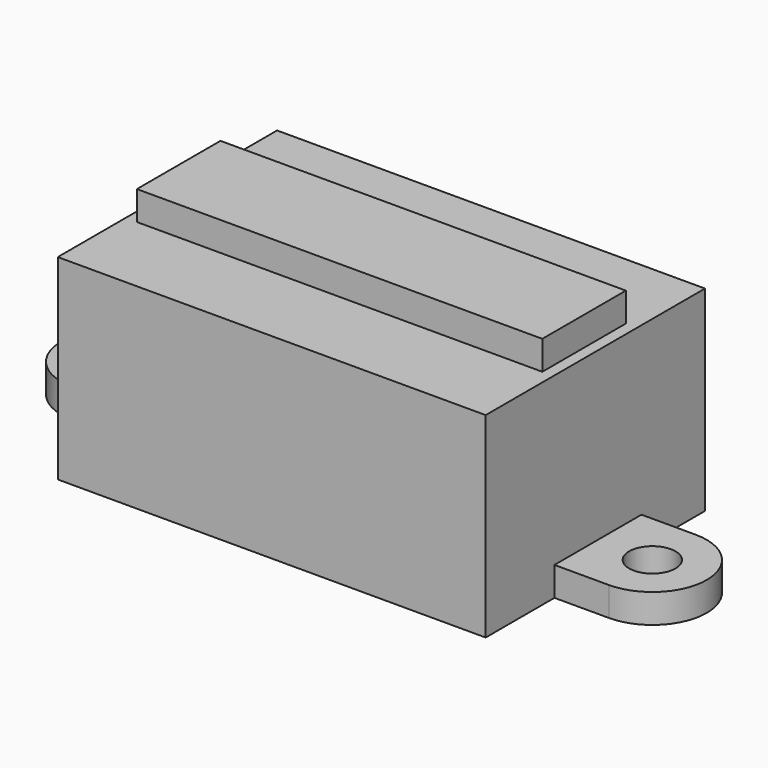
from build123d import *

# Parameters (mm, degrees)
F0_W     = 29.5
F0_H     = 18.9
F1_DEPTH = 13.5
F2_R     = 1.6
F3_DEPTH = 2
F4_W     = 27.95
F4_H     = 7.2
F5_DEPTH = 2


with BuildPart() as f1:
    # F0 (on Top) → F1 (new body)
    with BuildSketch(Plane.XY):
        with Locations((-2.3268059269, -8.9522809724)):
            Rectangle(F0_W, F0_H)
    extrude(amount=F1_DEPTH)

    # F2 (on face) → F3 (join)
    with BuildSketch(Plane(origin=(0, 0, 0), x_dir=(1, 0, 0), z_dir=(0, 0, -1))):
        with BuildLine():
            Line((-20.8268059269, 7.1262256302), (-20.8268059269, 4.9762256302))
            Line((-20.8268059269, 4.9762256302), (-17.0768059269, 4.9762256302))
            Line((-17.0768059269, 4.9762256302), (-17.0768059269, 12.4762256302))
            Line((-17.0768059269, 12.4762256302), (-20.8268059269, 12.4762256302))
            Line((-20.8268059269, 12.4762256302), (-20.8268059269, 10.3262256302))
            ThreePointArc((-20.8268059269, 10.3262256302), (-19.695435077, 9.8575964801), (-19.2268059269, 8.7262256302))
            ThreePointArc((-19.2268059269, 8.7262256302), (-19.695435077, 7.5948547803), (-20.8268059269, 7.1262256302))
        make_face()
        with BuildLine():
            ThreePointArc((-20.8268059269, 12.4762256302), (-24.5768059269, 8.7262256302), (-20.8268059269, 4.9762256302))
            Line((-20.8268059269, 4.9762256302), (-20.8268059269, 7.1262256302))
            ThreePointArc((-20.8268059269, 7.1262256302), (-22.4268059269, 8.7262256302), (-20.8268059269, 10.3262256302))
            Line((-20.8268059269, 10.3262256302), (-20.8268059269, 12.4762256302))
        make_face()
        with BuildLine():
            Line((12.4231940731, 12.4762256302), (12.4231940731, 4.9762256302))
            Line((12.4231940731, 4.9762256302), (16.1731940731, 4.9762256302))
            ThreePointArc((16.1731940731, 4.9762256302), (19.9231940731, 8.7262256302), (16.1731940731, 12.4762256302))
            Line((16.1731940731, 12.4762256302), (12.4231940731, 12.4762256302))
        make_face()
        with Locations((16.1731940731, 8.7262256302)):
            Circle(F2_R, mode=Mode.SUBTRACT)
    extrude(amount=-F3_DEPTH)

    # F4 (on face) → F5 (join)
    with BuildSketch(Plane.XY.offset(13.5)):
        with Locations((-2.3268059269, -8.9522809724)):
            Rectangle(F4_W, F4_H)
    extrude(amount=F5_DEPTH)


solid = f1.part
